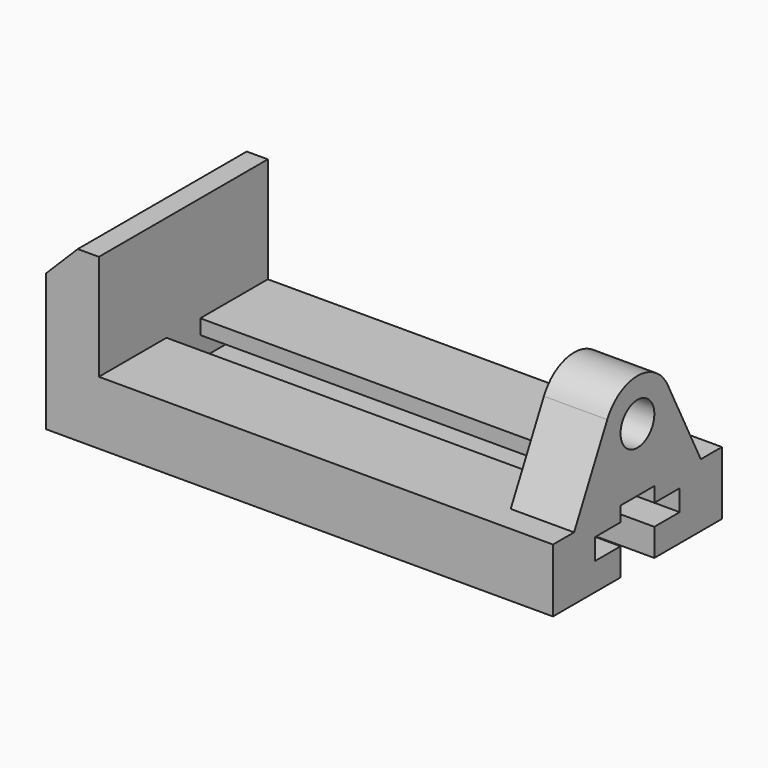
from build123d import *

# Parameters (mm, degrees)
F1_DEPTH = 127
F3_DEPTH = 234.95
F4_R     = 12.7
F5_DEPTH = 38.1


with BuildPart() as f1:
    # F0 (on Front) → F1 (new body)
    with BuildSketch(Plane.XZ):
        Polygon((0, 82.55), (0, 0), (31.75, 0), (31.75, 101.6), (19.05, 101.6), align=None)
    extrude(amount=F1_DEPTH)

    # F2 (on face) → F3 (join)
    with BuildSketch(Plane.YZ.offset(31.75)):
        Polygon((-127, 38.1), (-127, 0), (-76.2, 0), (-76.2, 16.51), (-95.25, 16.51), (-95.25, 29.21), (-76.2, 29.21), (-76.2, 38.1), align=None)
        Polygon((-50.8, 16.51), (-50.8, 0), (0, 0), (0, 38.1), (-50.8, 38.1), (-50.8, 29.21), (-31.75, 29.21), (-31.75, 16.51), align=None)
    extrude(amount=F3_DEPTH)

    # F4 (on face) → F5 (join)
    with BuildSketch(Plane.YZ.offset(266.7)):
        with BuildLine():
            Line((-127, 38.1), (-127, 0))
            Line((-127, 0), (-76.2, 0))
            Line((-76.2, 0), (-76.2, 16.51))
            Line((-76.2, 16.51), (-95.25, 16.51))
            Line((-95.25, 16.51), (-95.25, 29.21))
            Line((-95.25, 29.21), (-76.2, 29.21))
            Line((-76.2, 29.21), (-76.2, 38.1))
            Line((-76.2, 38.1), (-50.8, 38.1))
            Line((-50.8, 38.1), (-50.8, 29.21))
            Line((-50.8, 29.21), (-31.75, 29.21))
            Line((-31.75, 29.21), (-31.75, 16.51))
            Line((-31.75, 16.51), (-50.8, 16.51))
            Line((-50.8, 16.51), (-50.8, 0))
            Line((-50.8, 0), (0, 0))
            Line((0, 0), (0, 38.1))
            Line((0, 38.1), (-15.875, 38.1))
            Line((-15.875, 38.1), (-40.814084, 87.624062))
            ThreePointArc((-40.814084, 87.624062), (-63.5, 101.6), (-86.185916, 87.624062))
            Line((-86.185916, 87.624062), (-111.125, 38.1))
            Line((-111.125, 38.1), (-127, 38.1))
        make_face()
        with Locations((-63.5, 76.2)):
            Circle(F4_R, mode=Mode.SUBTRACT)
    extrude(amount=F5_DEPTH)


solid = f1.part
